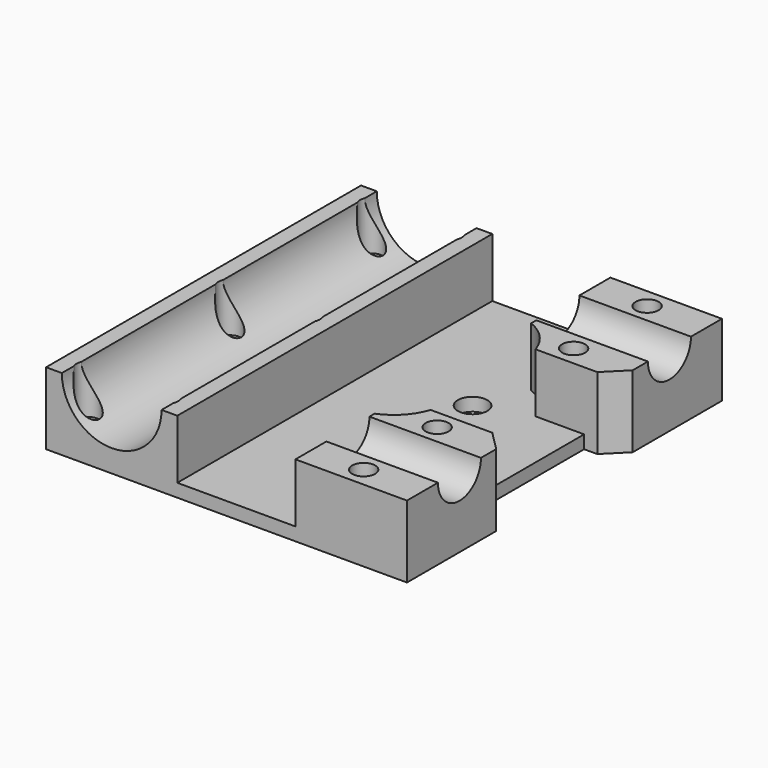
from build123d import *

# Parameters (mm, degrees)
SKETCH_W                       = 55
SKETCH_H                       = 60
PAD_DEPTH                      = 11
SKETCH001_R                    = 7.6
POCKET_DEPTH                   = 60.001
SKETCH002_R                    = 1.75
POCKET001_DEPTH                = 11.001
POCKET002_DEPTH                = 9
SKETCH004_R                    = 2.25
POCKET003_DEPTH                = 11.001
SKETCH008_R                    = 4.1
POCKET005_DEPTH                = 20
SKETCH010_W                    = 20
SKETCH010_H                    = 25
POCKET006_DEPTH                = 5
CHAMFER_SIZE                   = 3
CHAMFER001_SIZE                = 3
PART_MIRRORING_PLACEMENT_ANGLE = 180
SKETCH011_R                    = 2.9
POCKET007_DEPTH                = 3.5


with BuildPart() as chamfer002:
    # Sketch → Pad (new body)
    with BuildSketch(Plane.XY):
        with Locations((17.5, 0)):
            Rectangle(SKETCH_W, SKETCH_H)
    extrude(amount=PAD_DEPTH)

    # Sketch001 → Pocket (cut, through all)
    with BuildSketch(Plane.XZ.offset(30)):
        with Locations((0, 11)):
            Circle(SKETCH001_R)
    extrude(amount=-POCKET_DEPTH, mode=Mode.SUBTRACT)

    # Sketch002 → Pocket001 (cut, through all)
    with BuildSketch(Plane(origin=(0, 0, 0), x_dir=(1, 0, 0), z_dir=(0, 0, -1))):
        with Locations((-6, 27)):
            Circle(SKETCH002_R)
        with Locations((36, 27)):
            Circle(SKETCH002_R)
        with Locations((-6, -27)):
            Circle(SKETCH002_R)
        with Locations((36, -27)):
            Circle(SKETCH002_R)
        with Locations((6, 27)):
            Circle(SKETCH002_R)
        with Locations((6, -27)):
            Circle(SKETCH002_R)
        with Locations((6, 0)):
            Circle(SKETCH002_R)
        with Locations((-6, 0)):
            Circle(SKETCH002_R)
        with Locations((36, -13)):
            Circle(SKETCH002_R)
        with Locations((36, 13)):
            Circle(SKETCH002_R)
    extrude(amount=-POCKET001_DEPTH, mode=Mode.SUBTRACT)

    # Sketch003 → Pocket002 (cut)
    with BuildSketch(Plane.XY.offset(11)):
        with BuildLine():
            Line((10, 35), (10, -35))
            Line((10, -35), (28, -35))
            Line((28, -35), (28, -14.916198))
            ThreePointArc((28, -14.916198), (30.841983, -12.965458), (32.599342, -10))
            Line((32.599342, -10), (52.599342, -10))
            Line((52.599342, -10), (52.599342, 10))
            Line((52.599342, 10), (32.599342, 10))
            ThreePointArc((32.599342, 10), (30.841983, 12.965458), (28, 14.916198))
            Line((28, 14.916198), (28, 35))
            Line((28, 35), (10, 35))
        make_face()
    extrude(amount=-POCKET002_DEPTH, mode=Mode.SUBTRACT)

    # Sketch004 → Pocket003 (cut, through all)
    with BuildSketch(Plane(origin=(0, 0, 0), x_dir=(1, 0, 0), z_dir=(0, 0, -1))):
        with Locations((25, 7.5)):
            Circle(SKETCH004_R)
        with Locations((25, -7.5)):
            Circle(SKETCH004_R)
    extrude(amount=-POCKET003_DEPTH, mode=Mode.SUBTRACT)

    # Sketch008 → Pocket005 (cut)
    with BuildSketch(Plane.YZ.offset(45)):
        with Locations((-20, 11)):
            Circle(SKETCH008_R)
        with Locations((20, 11)):
            Circle(SKETCH008_R)
    extrude(amount=-POCKET005_DEPTH, mode=Mode.SUBTRACT)

    # Sketch010 → Pocket006 (cut)
    with BuildSketch(Plane.YZ.offset(45)):
        with Locations((0, 3.5)):
            Rectangle(SKETCH010_W, SKETCH010_H)
    extrude(amount=-POCKET006_DEPTH, mode=Mode.SUBTRACT)

    # Chamfer
    chamfer_edges = [chamfer002.edges().sort_by_distance(p)[0] for p in [
        (45, -10, 6.5),
    ]]
    chamfer(chamfer_edges, length=CHAMFER_SIZE)

    # Chamfer001
    chamfer001_edges = [chamfer002.edges().sort_by_distance(p)[0] for p in [
        (45, 10, 6.5),
    ]]
    chamfer(chamfer001_edges, length=CHAMFER001_SIZE)


with BuildPart() as pocket007:
    # Part__Mirroring: instance of Chamfer002
    add(chamfer002.part.mirror(Plane(origin=(0, 0, 0), x_dir=(0, 1, 0), z_dir=(0, 0, 1))))


with BuildPart() as pocket007_1:
    # Part__Mirroring placement: moved
    add(pocket007.part.rotate(Axis((0, 0, 0), (1, 0, 0)), PART_MIRRORING_PLACEMENT_ANGLE))

    # Sketch011 → Pocket007 (cut)
    with BuildSketch(Plane(origin=(0, 0, 0), x_dir=(1, 0, 0), z_dir=(0, 0, -1))):
        with Locations((36, 27)):
            Circle(SKETCH011_R)
        with Locations((36, 13)):
            Circle(SKETCH011_R)
        with Locations((36, -13)):
            Circle(SKETCH011_R)
        with Locations((36, -27)):
            Circle(SKETCH011_R)
        with Locations((-6, 27)):
            Circle(SKETCH011_R)
        with Locations((6, 27)):
            Circle(SKETCH011_R)
        with Locations((-6, 0)):
            Circle(SKETCH011_R)
        with Locations((6, 0)):
            Circle(SKETCH011_R)
        with Locations((-6, -27)):
            Circle(SKETCH011_R)
        with Locations((6, -27)):
            Circle(SKETCH011_R)
    extrude(amount=-POCKET007_DEPTH, mode=Mode.SUBTRACT)


solid = pocket007_1.part
